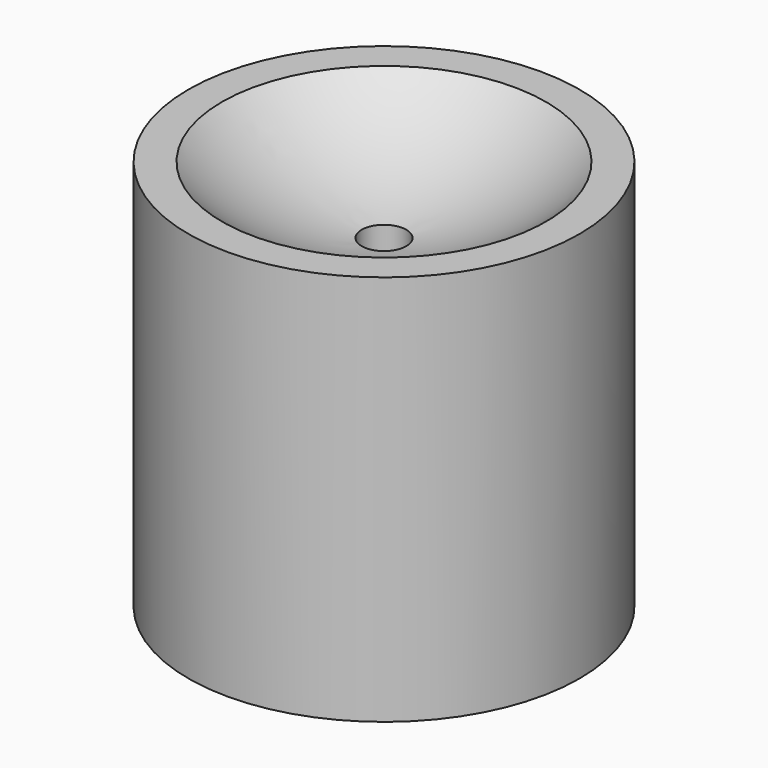
from build123d import *


with BuildPart() as f1:
    # F0 (on Front) → F1 (revolve)
    with BuildSketch(Plane.XZ):
        with BuildLine():
            Line((0, 70), (0, 0))
            Line((0, 0), (9.7, 0))
            add(Edge.make_bspline(
                [(31, 14.7), (15.973607, 14.765303), (9.911433, 9.767671), (9.7, 0)],
                knots=[0, 0, 0, 0, 25.880108, 25.880108, 25.880108, 25.880108], degree=3))
            Line((31, 14.7), (31, 58))
            ThreePointArc((31, 58), (17.625285, 62.177678), (6, 70))
            Line((6, 70), (0, 70))
        make_face()
    revolve(axis=Axis((34.9878, 0, 36.35), (0, 0, 1)))


solid = f1.part
